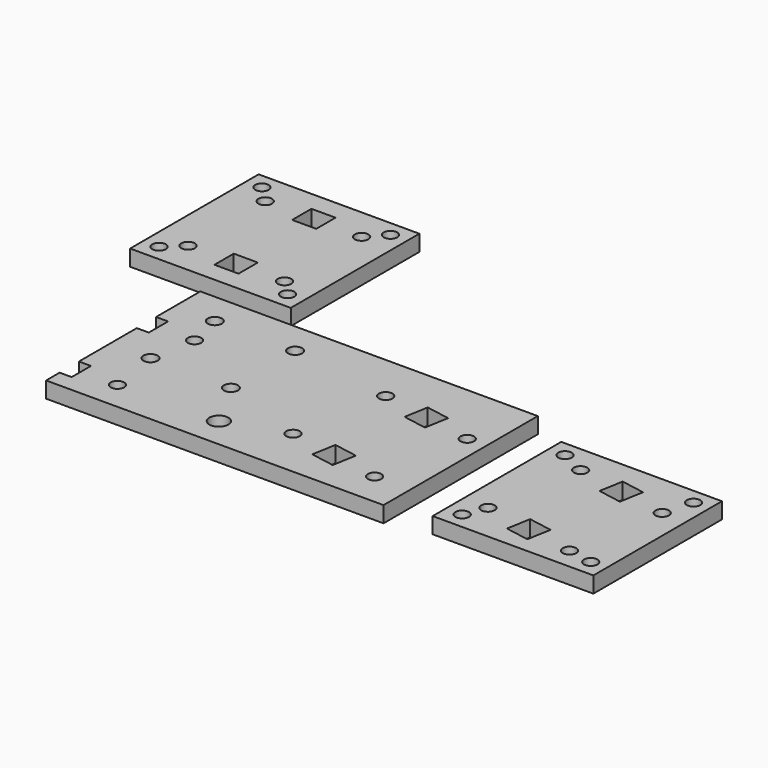
from build123d import *

# Parameters (mm, degrees)
SKETCH_W        = 210
SKETCH_H        = 120
PAD_DEPTH       = 10
SKETCH002_R     = 4.2
SKETCH002_W     = 15
SKETCH002_H     = 15
POCKET001_DEPTH = 10
SKETCH003_R     = 8.4
POCKET002_DEPTH = 5
SKETCH004_R     = 8.4
POCKET003_DEPTH = 5
SKETCH005_R     = 2.2
POCKET004_DEPTH = 10
SKETCH006_R     = 4.4
POCKET005_DEPTH = 5
SKETCH031_R     = 5.905599
POCKET019_DEPTH = 10
SKETCH001_R     = 4.2
SKETCH001_W     = 15
SKETCH001_H     = 15
POCKET_DEPTH    = 10
SKETCH032_W     = 100
SKETCH032_H     = 100
PAD001_DEPTH    = 10
SKETCH033_R     = 4.2
SKETCH033_W     = 15
SKETCH033_H     = 15
POCKET020_DEPTH = 10
SKETCH034_R     = 8.4
POCKET021_DEPTH = 5
SKETCH035_R     = 2.1
POCKET022_DEPTH = 10
SKETCH036_R     = 4.2
POCKET023_DEPTH = 5
SKETCH037_W     = 100
SKETCH037_H     = 100
PAD002_DEPTH    = 10
SKETCH040_R     = 2.1
POCKET026_DEPTH = 10
SKETCH041_R     = 4.2
POCKET027_DEPTH = 5
SKETCH038_R     = 4.2
SKETCH038_W     = 15
SKETCH038_H     = 15
POCKET028_DEPTH = 10
SKETCH039_R     = 8.4
POCKET029_DEPTH = 5


with BuildPart() as body:
    # Sketch → Pad (new body)
    with BuildSketch(Plane.XY):
        with Locations((-105, 60)):
            Rectangle(SKETCH_W, SKETCH_H)
    extrude(amount=PAD_DEPTH)

    # Sketch002 → Pocket001 (cut)
    with BuildSketch(Plane.XY):
        with Locations((-30, 78)):
            Circle(SKETCH002_R)
        with Locations((30, 78)):
            Circle(SKETCH002_R)
        with Locations((-30, 18)):
            Circle(SKETCH002_R)
        with Locations((30, 18)):
            Circle(SKETCH002_R)
        with Locations((0, 78.038811)):
            Rectangle(SKETCH002_W, SKETCH002_H)
        with Locations((0, 18.036098)):
            Rectangle(SKETCH002_W, SKETCH002_H)
    extrude(amount=POCKET001_DEPTH, mode=Mode.SUBTRACT)

    # Sketch003 → Pocket002 (cut)
    with BuildSketch(Plane(origin=(-36, -54, 0), x_dir=(0.984808, 0.173648, 0), z_dir=(0, 0, 1))):
        with Locations((-136.49326, 159.995878)):
            Circle(SKETCH003_R)
        with Locations((-76.49326, 159.995878)):
            Circle(SKETCH003_R)
        with Locations((-136.49326, 99.995878)):
            Circle(SKETCH003_R)
        with Locations((-76.49326, 99.995878)):
            Circle(SKETCH003_R)
    extrude(amount=POCKET002_DEPTH, mode=Mode.SUBTRACT)

    # Sketch004 → Pocket003 (cut)
    with BuildSketch(Plane.XY):
        with Locations((-30, 78)):
            Circle(SKETCH004_R)
        with Locations((-30, 18)):
            Circle(SKETCH004_R)
    extrude(amount=POCKET003_DEPTH, mode=Mode.SUBTRACT)

    # Sketch005 (on Face5 of Pocket003) → Pocket004 (cut)
    with BuildSketch(Plane.XY.offset(10)):
        with Locations((-25, 50)):
            Circle(SKETCH005_R)
        with Locations((-25, 100)):
            Circle(SKETCH005_R)
        with Locations((-75, 100)):
            Circle(SKETCH005_R)
        with Locations((-75, 50)):
            Circle(SKETCH005_R)
    extrude(amount=-POCKET004_DEPTH, mode=Mode.SUBTRACT)

    # Sketch006 (on Face5 of Pocket004) → Pocket005 (cut)
    with BuildSketch(Plane.XY.offset(10)):
        with Locations((-25, 100)):
            Circle(SKETCH006_R)
        with Locations((-25, 50)):
            Circle(SKETCH006_R)
        with Locations((-75, 100)):
            Circle(SKETCH006_R)
        with Locations((-75, 50)):
            Circle(SKETCH006_R)
    extrude(amount=-POCKET005_DEPTH, mode=Mode.SUBTRACT)

    # Sketch031 (on Face4 of Pocket005) → Pocket019 (cut)
    with BuildSketch(Plane(origin=(0, 0, 0), x_dir=(1, 0, 0), z_dir=(0, 0, -1))):
        with Locations((-92.301819, -19.035278)):
            Circle(SKETCH031_R)
    extrude(amount=-POCKET019_DEPTH, mode=Mode.SUBTRACT)

    # Sketch001 → Pocket (cut)
    with BuildSketch(Plane(origin=(-36, -54, 0), x_dir=(0.984808, 0.173648, 0), z_dir=(0, 0, 1))):
        with Locations((-136.49326, 159.995878)):
            Circle(SKETCH001_R)
        with Locations((-76.49326, 159.995878)):
            Circle(SKETCH001_R)
        with Locations((-136.49326, 99.995878)):
            Circle(SKETCH001_R)
        with Locations((-76.49326, 99.995878)):
            Circle(SKETCH001_R)
        with Locations((-106.49326, 159.906723)):
            Rectangle(SKETCH001_W, SKETCH001_H)
        with Locations((-106.49326, 100.185358)):
            Rectangle(SKETCH001_W, SKETCH001_H)
    extrude(amount=POCKET_DEPTH, mode=Mode.SUBTRACT)


with BuildPart() as part_mirroring:
    # Part__Mirroring: instance of Body
    add(body.part.mirror(Plane(origin=(0, 0, 0), x_dir=(0, -1, 0), z_dir=(1, 0, 0))))


with BuildPart() as body001:
    # Sketch032 → Pad001 (new body)
    with BuildSketch(Plane.XY):
        with Locations((278.148773, 55.911007)):
            Rectangle(SKETCH032_W, SKETCH032_H)
    extrude(amount=PAD001_DEPTH)

    # Sketch033 → Pocket020 (cut)
    with BuildSketch(Plane(origin=(-36, -54, 0), x_dir=(0.984808, 0.173648, 0), z_dir=(0, 0, 1))):
        with Locations((297.817725, 81.68223)):
            Circle(SKETCH033_R)
        with Locations((357.817725, 81.68223)):
            Circle(SKETCH033_R)
        with Locations((297.817725, 21.68223)):
            Circle(SKETCH033_R)
        with Locations((357.817725, 21.68223)):
            Circle(SKETCH033_R)
        with Locations((327.817725, 81.578226)):
            Rectangle(SKETCH033_W, SKETCH033_H)
        with Locations((327.817725, 21.694764)):
            Rectangle(SKETCH033_W, SKETCH033_H)
    extrude(amount=POCKET020_DEPTH, mode=Mode.SUBTRACT)

    # Sketch034 → Pocket021 (cut)
    with BuildSketch(Plane(origin=(-36, -54, 0), x_dir=(0.984808, 0.173648, 0), z_dir=(0, 0, 1))):
        with Locations((297.758538, 81.59258)):
            Circle(SKETCH034_R)
        with Locations((357.758538, 81.59258)):
            Circle(SKETCH034_R)
        with Locations((297.758538, 21.59258)):
            Circle(SKETCH034_R)
        with Locations((357.758538, 21.59258)):
            Circle(SKETCH034_R)
    extrude(amount=POCKET021_DEPTH, mode=Mode.SUBTRACT)

    # Sketch035 (on Face5 of Pocket021) → Pocket022 (cut)
    with BuildSketch(Plane.XY.offset(10)):
        with Locations((237.948565, 96.209783)):
            Circle(SKETCH035_R)
        with Locations((317.948565, 96.209783)):
            Circle(SKETCH035_R)
        with Locations((237.948565, 16.209783)):
            Circle(SKETCH035_R)
        with Locations((317.948565, 16.209783)):
            Circle(SKETCH035_R)
    extrude(amount=-POCKET022_DEPTH, mode=Mode.SUBTRACT)

    # Sketch036 (on Face5 of Pocket022) → Pocket023 (cut)
    with BuildSketch(Plane.XY.offset(10)):
        with Locations((237.975067, 96.170716)):
            Circle(SKETCH036_R)
        with Locations((317.975067, 96.170716)):
            Circle(SKETCH036_R)
        with Locations((237.975067, 16.170716)):
            Circle(SKETCH036_R)
        with Locations((317.975067, 16.170716)):
            Circle(SKETCH036_R)
    extrude(amount=-POCKET023_DEPTH, mode=Mode.SUBTRACT)


with BuildPart() as body001_1:
    # Body001 placement: moved
    add(body001.part.moved(Location((-564, 0, 0))))


with BuildPart() as part_mirroring001:
    # Part__Mirroring001: instance of Body001
    add(body001_1.part.mirror(Plane(origin=(0, 0, 0), x_dir=(0, -1, 0), z_dir=(1, 0, 0))))


with BuildPart() as body002:
    # Sketch037 → Pad002 (new body)
    with BuildSketch(Plane.XY):
        with Locations((278.148773, 55.911007)):
            Rectangle(SKETCH037_W, SKETCH037_H)
    extrude(amount=PAD002_DEPTH)

    # Sketch040 → Pocket026 (cut)
    with BuildSketch(Plane.XY.offset(10)):
        with Locations((237.948565, 96.209783)):
            Circle(SKETCH040_R)
        with Locations((317.948565, 96.209783)):
            Circle(SKETCH040_R)
        with Locations((237.948565, 16.209783)):
            Circle(SKETCH040_R)
        with Locations((317.948565, 16.209783)):
            Circle(SKETCH040_R)
    extrude(amount=-POCKET026_DEPTH, mode=Mode.SUBTRACT)

    # Sketch041 (on Face5 of Pocket026) → Pocket027 (cut)
    with BuildSketch(Plane.XY.offset(10)):
        with Locations((237.975067, 96.170716)):
            Circle(SKETCH041_R)
        with Locations((317.975067, 96.170716)):
            Circle(SKETCH041_R)
        with Locations((237.975067, 16.170716)):
            Circle(SKETCH041_R)
        with Locations((317.975067, 16.170716)):
            Circle(SKETCH041_R)
    extrude(amount=-POCKET027_DEPTH, mode=Mode.SUBTRACT)

    # Sketch038 → Pocket028 (cut)
    with BuildSketch(Plane(origin=(-36, -54, 0), x_dir=(1, 0, 0), z_dir=(0, 0, 1))):
        with Locations((284.333469, 139.793406)):
            Circle(SKETCH038_R)
        with Locations((344.333469, 139.793406)):
            Circle(SKETCH038_R)
        with Locations((284.333469, 79.793406)):
            Circle(SKETCH038_R)
        with Locations((344.333469, 79.793406)):
            Circle(SKETCH038_R)
        with Locations((314.333469, 140.10933)):
            Rectangle(SKETCH038_W, SKETCH038_H)
        with Locations((314.333469, 79.675171)):
            Rectangle(SKETCH038_W, SKETCH038_H)
    extrude(amount=POCKET028_DEPTH, mode=Mode.SUBTRACT)

    # Sketch039 → Pocket029 (cut)
    with BuildSketch(Plane(origin=(-36, -54, 0), x_dir=(1, 0, 0), z_dir=(0, 0, 1))):
        with Locations((284.232884, 139.768659)):
            Circle(SKETCH039_R)
        with Locations((344.232884, 139.768659)):
            Circle(SKETCH039_R)
        with Locations((284.232884, 79.768659)):
            Circle(SKETCH039_R)
        with Locations((344.232884, 79.768659)):
            Circle(SKETCH039_R)
    extrude(amount=POCKET029_DEPTH, mode=Mode.SUBTRACT)


with BuildPart() as body002_1:
    # Body002 placement: moved
    add(body002.part.moved(Location((-283, 128, 0))))


solid = Compound([part_mirroring.part, part_mirroring001.part, body002_1.part])
